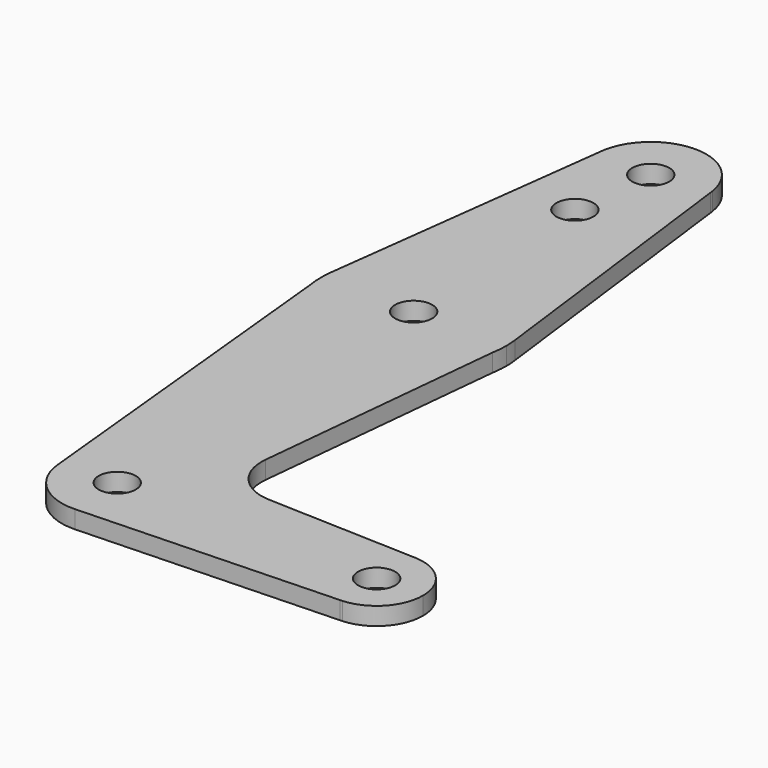
from build123d import *

# Parameters (mm, degrees)
F0_R     = 3.175
F1_DEPTH = 3.048


with BuildPart() as f1:
    # F0 (on Top) → F1 (new body)
    with BuildSketch(Plane.XY):
        with BuildLine():
            Line((-35.469323, 60.474415), (-35.540584, 61.039649))
            ThreePointArc((-35.540584, 61.039649), (-45.348972, 69.08282), (-54.451434, 60.248668))
            ThreePointArc((-54.451434, 60.248668), (-45.292402, 50.047265), (-35.425919, 59.566141))
            ThreePointArc((-35.425919, 59.566141), (-35.436776, 60.020797), (-35.469323, 60.474415))
        make_face()
        with Locations((-44.950919, 59.566141)):
            Circle(F0_R, mode=Mode.SUBTRACT)
        with BuildLine():
            ThreePointArc((-35.469323, 60.474415), (-35.500727, 60.757565), (-35.540584, 61.039649))
            Line((-35.540584, 61.039649), (-35.469323, 60.474415))
        make_face()
        with BuildLine():
            ThreePointArc((-35.425919, 59.566141), (-45.292402, 50.047265), (-54.451434, 60.248668))
            Line((-54.451434, 60.248668), (-60.700862, 10.754837))
            ThreePointArc((-60.700862, 10.754837), (-44.949413, 24.641141), (-29.200598, 10.751848))
            Line((-29.200598, 10.751848), (-35.469323, 60.474415))
            ThreePointArc((-35.469323, 60.474415), (-35.436776, 60.020797), (-35.425919, 59.566141))
        make_face()
        with Locations((-46.538419, 45.291341)):
            Circle(F0_R, mode=Mode.SUBTRACT)
        with BuildLine():
            ThreePointArc((-29.200598, 10.751848), (-44.949413, 24.641141), (-60.700862, 10.754837))
            ThreePointArc((-60.700862, 10.754837), (-60.822376, 8.430753), (-60.602792, 6.113877))
            ThreePointArc((-60.602792, 6.113877), (-44.973136, -7.108843), (-29.306531, 6.070077))
            ThreePointArc((-29.306531, 6.070077), (-29.133677, 7.413187), (-29.075919, 8.766141))
            ThreePointArc((-29.075919, 8.766141), (-29.10712, 9.76095), (-29.200598, 10.751848))
        make_face()
        with Locations((-44.950919, 8.766141)):
            Circle(F0_R, mode=Mode.SUBTRACT)
        with BuildLine():
            ThreePointArc((-29.306531, 6.070077), (-44.973136, -7.108843), (-60.602792, 6.113877))
            Line((-60.602792, 6.113877), (-54.42873, -55.68081))
            ThreePointArc((-54.42873, -55.68081), (-45.424982, -45.220663), (-35.425919, -54.733859))
            ThreePointArc((-35.425919, -54.733859), (-38.09629, -61.347457), (-44.610104, -64.252759))
            Line((-44.610104, -64.252759), (-0.434025, -62.671077))
            ThreePointArc((-0.434025, -62.671077), (-8.438419, -54.733859), (-0.434025, -46.796641))
            Line((-0.434025, -46.796641), (-25.995828, -45.881424))
            ThreePointArc((-25.995828, -45.881424), (-31.700211, -43.16502), (-33.622214, -37.146321))
            Line((-33.622214, -37.146321), (-29.306531, 6.070077))
        make_face()
        with BuildLine():
            ThreePointArc((-35.425919, -54.733859), (-45.424982, -45.220663), (-54.42873, -55.68081))
            ThreePointArc((-54.42873, -55.68081), (-51.215163, -61.909155), (-44.610104, -64.252759))
            ThreePointArc((-44.610104, -64.252759), (-38.09629, -61.347457), (-35.425919, -54.733859))
        make_face()
        with Locations((-44.950919, -54.733859)):
            Circle(F0_R, mode=Mode.SUBTRACT)
        with BuildLine():
            Line((0, -62.655537), (-0.434025, -62.671077))
            ThreePointArc((-0.434025, -62.671077), (-0.216906, -62.666276), (0, -62.655537))
        make_face()
        with BuildLine():
            ThreePointArc((-0.434025, -46.796641), (-8.438419, -54.733859), (-0.434025, -62.671077))
            Line((-0.434025, -62.671077), (0, -62.655537))
            ThreePointArc((0, -62.655537), (5.286133, -60.166531), (7.436581, -54.733859))
            ThreePointArc((7.436581, -54.733859), (5.286133, -49.301186), (0, -46.81218))
            Line((0, -46.81218), (-0.434025, -46.796641))
        make_face()
        with Locations((-0.500919, -54.733859)):
            Circle(F0_R, mode=Mode.SUBTRACT)
        with BuildLine():
            ThreePointArc((0, -46.81218), (-0.216906, -46.801441), (-0.434025, -46.796641))
            Line((-0.434025, -46.796641), (0, -46.81218))
        make_face()
    extrude(amount=F1_DEPTH)


solid = f1.part
